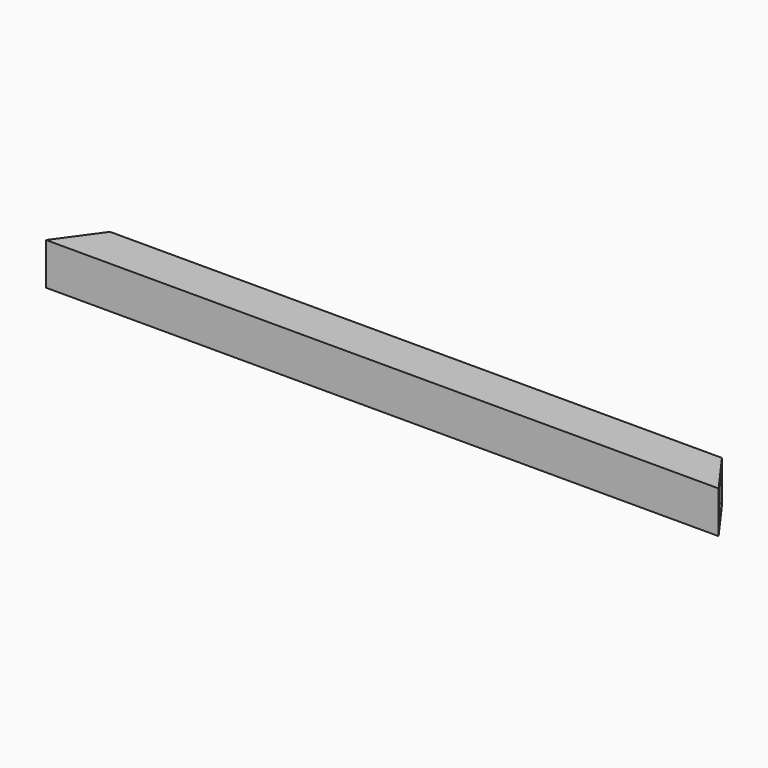
from build123d import *

# Parameters (mm, degrees)
SKETCH_W       = 31.75
SKETCH_H       = 31.75
SKETCH_W_2     = 26.2128
SKETCH_H_2     = 26.2128
PAD_DEPTH      = 254
PAD_DEPTH_BACK = 254
POCKET_DEPTH   = 31.75


with BuildPart() as part:
    # Sketch → Pad (new body, two sides)
    with BuildSketch(Plane.YZ) as pad_sk:
        Rectangle(SKETCH_W, SKETCH_H)
        Rectangle(SKETCH_W_2, SKETCH_H_2, mode=Mode.SUBTRACT)
    extrude(amount=PAD_DEPTH)
    extrude(pad_sk.sketch, amount=-PAD_DEPTH_BACK)

    # Sketch002 → Pocket (cut)
    with BuildSketch(Plane(origin=(0, 0, 15.875), x_dir=(0, -1, 0), z_dir=(0, 0, 1))):
        Polygon((15.875, -254), (-15.875, -254), (-15.875, -231.115916), align=None)
    pocket = extrude(amount=-POCKET_DEPTH, mode=Mode.SUBTRACT)

    # Mirrored: Pocket across Sketch002 H_Axis
    add(pocket.mirror(Plane(origin=(0, 0, 15.875), x_dir=(0, 0, 1), z_dir=(1, 0, 0))), mode=Mode.SUBTRACT)


solid = part.part
